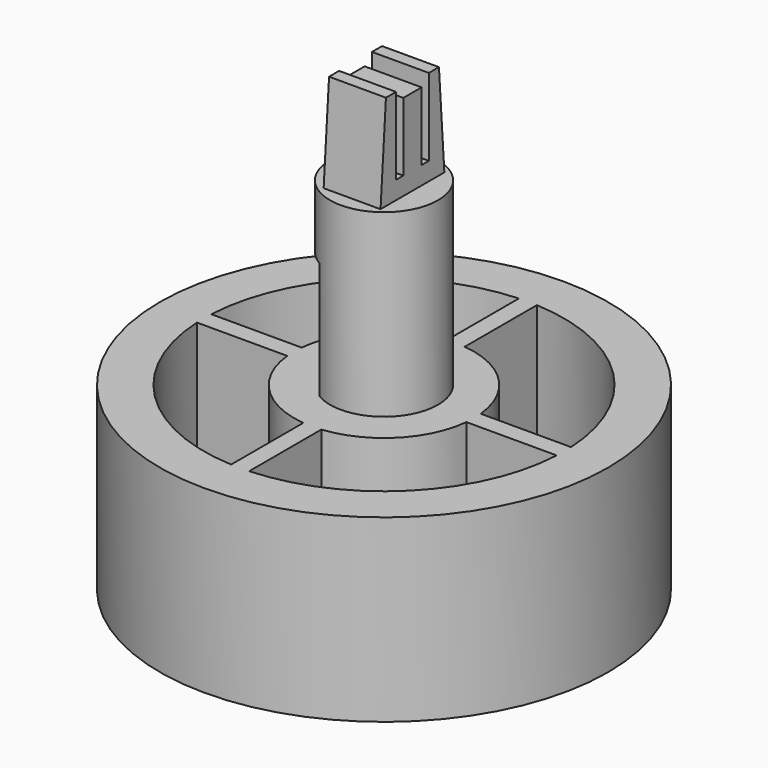
from build123d import *

# Parameters (mm, degrees)
F0_R      = 12.45
F1_DEPTH  = 10
F2_R      = 3
F3_DEPTH  = 10
F4_W      = 3
F4_H      = 6
F5_DEPTH  = 6.5
F6_W      = 3.16
F6_H      = 4.43
F7_DEPTH  = 5.3
F8_W      = 3.16
F8_H      = 0.5056946463
F9_DEPTH  = 4.3
F11_DEPTH = 14.031
F12_W     = 1.2686107075
F12_H     = 0.5
F13_DEPTH = 14.031
F14_DEPTH = 7


with BuildPart() as f1:
    # F0 (on Top) → F1 (new body)
    with BuildSketch(Plane.XY):
        Circle(F0_R)
    extrude(amount=F1_DEPTH)

    # F2 (on face) → F3 (join)
    with BuildSketch(Plane.XY.offset(10)):
        Circle(F2_R)
    extrude(amount=F3_DEPTH)

    # F4 (on face) → F5 (cut)
    with BuildSketch(Plane.XY.offset(10)):
        with Locations((-3, 0)):
            Rectangle(F4_W, F4_H)
    extrude(amount=F5_DEPTH, mode=Mode.SUBTRACT)

    # F6 (on face) → F7 (join)
    with BuildSketch(Plane.XY.offset(20)):
        Rectangle(F6_W, F6_H)
    extrude(amount=F7_DEPTH)

    # F8 (on face) → F9 (cut)
    with BuildSketch(Plane.XY.offset(25.3)):
        with Locations((0, 0.8871526769)):
            Rectangle(F8_W, F8_H)
        with Locations((0, -0.8871526769)):
            Rectangle(F8_W, F8_H)
    extrude(amount=-F9_DEPTH, mode=Mode.SUBTRACT)

    # F10 (on face) → F11 (cut, through all)
    with BuildSketch(Plane(origin=(-1.58, 0, 0), x_dir=(0, -1, 0), z_dir=(-1, 0, 0))):
        Polygon((-2.215, 20), (-1.84, 25.3), (-2.215, 25.3), align=None)
        Polygon((1.84, 25.3), (2.215, 20), (2.215, 25.3), align=None)
    extrude(amount=-F11_DEPTH, mode=Mode.SUBTRACT)

    # F12 (on face) → F13 (cut, through all)
    with BuildSketch(Plane(origin=(-1.58, 0, 0), x_dir=(0, -1, 0), z_dir=(-1, 0, 0))):
        with Locations((0, 25.05)):
            Rectangle(F12_W, F12_H)
    extrude(amount=-F13_DEPTH, mode=Mode.SUBTRACT)

    # F2 (on face) → F14 (cut)
    with BuildSketch(Plane.XY.offset(10)):
        with BuildLine():
            Line((4.9749371855, 0.5), (9.9874921777, 0.5))
            ThreePointArc((9.9874921777, 0.5), (7.0710678119, 7.0710678119), (0.5, 9.9874921777))
            Line((0.5, 9.9874921777), (0.5, 4.9749371855))
            ThreePointArc((0.5, 4.9749371855), (3.5355339059, 3.5355339059), (4.9749371855, 0.5))
        make_face()
        with BuildLine():
            ThreePointArc((0.5, -9.9874921777), (7.0710678119, -7.0710678119), (9.9874921777, -0.5))
            Line((9.9874921777, -0.5), (4.9749371855, -0.5))
            ThreePointArc((4.9749371855, -0.5), (3.5355339059, -3.5355339059), (0.5, -4.9749371855))
            Line((0.5, -4.9749371855), (0.5, -9.9874921777))
        make_face()
        with BuildLine():
            Line((-0.5, -9.9874921777), (-0.5, -4.9749371855))
            ThreePointArc((-0.5, -4.9749371855), (-3.5355339059, -3.5355339059), (-4.9749371855, -0.5))
            Line((-4.9749371855, -0.5), (-9.9874921777, -0.5))
            ThreePointArc((-9.9874921777, -0.5), (-7.0710678119, -7.0710678119), (-0.5, -9.9874921777))
        make_face()
        with BuildLine():
            ThreePointArc((-4.9749371855, 0.5), (-3.5355339059, 3.5355339059), (-0.5, 4.9749371855))
            Line((-0.5, 4.9749371855), (-0.5, 9.9874921777))
            ThreePointArc((-0.5, 9.9874921777), (-7.0710678119, 7.0710678119), (-9.9874921777, 0.5))
            Line((-9.9874921777, 0.5), (-4.9749371855, 0.5))
        make_face()
    extrude(amount=-F14_DEPTH, mode=Mode.SUBTRACT)


solid = f1.part
